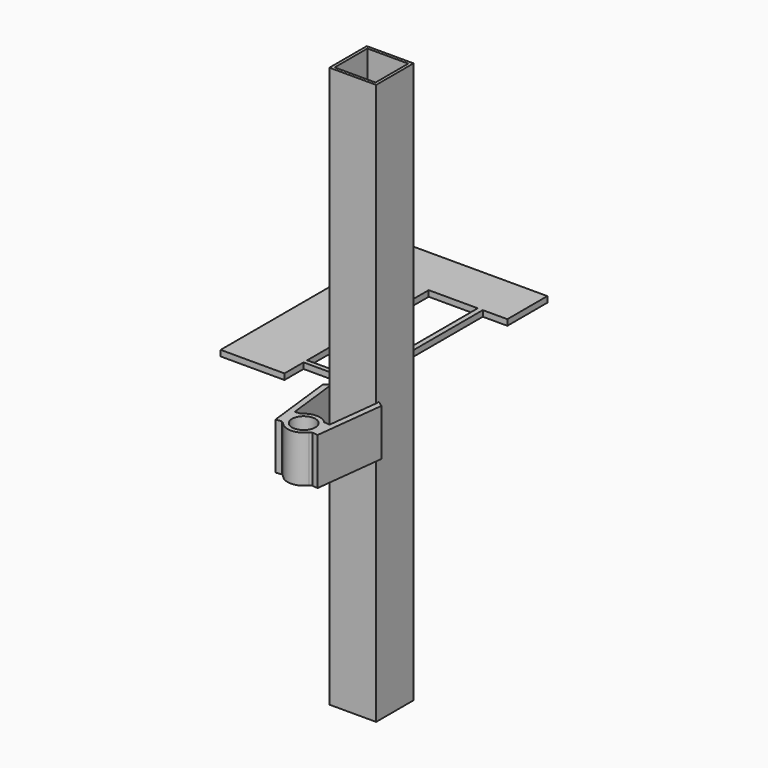
from build123d import *

# Parameters (mm, degrees)
F0_W     = 101.6
F0_H     = 101.6
F0_W_2   = 88.9
F0_H_2   = 88.9
F1_DEPTH = 1219.2
F3_R     = 25.4
F4_DEPTH = 101.6
F5_W     = 10.839459
F5_H     = 279.4
F5_W_2   = 88.9
F5_H_2   = 9.937655
F6_DEPTH = 12.7


with BuildPart() as f1:
    # F0 (on Top) → F1 (new body)
    with BuildSketch(Plane.XY):
        Rectangle(F0_W, F0_H)
        Rectangle(F0_W_2, F0_H_2, mode=Mode.SUBTRACT)
    extrude(amount=F1_DEPTH)

    # F3 (on offset) → F4 (join)
    with BuildSketch(Plane.XY.offset(609.6)):
        Polygon((-63.413588, -52.278986), (-50.8, -50.8), (-50.8, -42.603761), align=None)
        Polygon((-37.830632, -161.409753), (-50.8, -50.8), (-63.413588, -52.278986), (-45.665757, -203.642041), (-33.052169, -202.163055), (-34.687367, -188.21721), align=None)
        with BuildLine():
            ThreePointArc((-25.156298, -159.923644), (-33.097545, -173.000645), (-34.687367, -188.21721))
            ThreePointArc((-34.687367, -188.21721), (-32.444558, -197.076958), (-27.980041, -205.051506))
            ThreePointArc((-27.980041, -205.051506), (0.163736, -219.074616), (28.17479, -204.788237))
            ThreePointArc((28.17479, -204.788237), (32.504806, -196.92471), (34.687367, -188.217211))
            ThreePointArc((34.687367, -188.217211), (34.865541, -186.187073), (34.925, -184.15))
            ThreePointArc((34.925, -184.15), (32.390889, -171.089144), (25.156298, -159.923644))
            ThreePointArc((25.156298, -159.923644), (0, -149.225), (-25.156298, -159.923644))
        make_face()
        with Locations((0, -184.15)):
            Circle(F3_R, mode=Mode.SUBTRACT)
        with BuildLine():
            Line((-25.156298, -159.923644), (-37.830632, -161.409753))
            Line((-37.830632, -161.409753), (-34.687367, -188.21721))
            ThreePointArc((-34.687367, -188.21721), (-33.097545, -173.000645), (-25.156298, -159.923644))
        make_face()
        with BuildLine():
            ThreePointArc((-27.980041, -205.051506), (-32.444558, -197.076958), (-34.687367, -188.21721))
            Line((-34.687367, -188.21721), (-33.052169, -202.163055))
            Line((-33.052169, -202.163055), (-27.980041, -205.051506))
        make_face()
        with BuildLine():
            Line((33.052169, -202.163055), (34.687367, -188.217211))
            ThreePointArc((34.687367, -188.217211), (32.504806, -196.92471), (28.17479, -204.788237))
            Line((28.17479, -204.788237), (33.052169, -202.163055))
        make_face()
        with BuildLine():
            Line((34.687367, -188.217211), (37.830632, -161.409753))
            Line((37.830632, -161.409753), (25.156298, -159.923644))
            ThreePointArc((25.156298, -159.923644), (32.390889, -171.089144), (34.925, -184.15))
            ThreePointArc((34.925, -184.15), (34.865541, -186.187073), (34.687367, -188.217211))
        make_face()
        Polygon((63.413588, -52.278986), (50.8, -50.8), (37.830632, -161.409753), (34.687367, -188.217211), (33.052169, -202.163055), (45.665757, -203.642041), align=None)
        Polygon((50.8, -43.217294), (50.8, -50.8), (63.413588, -52.278986), align=None)
    extrude(amount=-F4_DEPTH)


with BuildPart() as f6:
    # F5 (on offset) → F6 (new body)
    with BuildSketch(Plane.XY.offset(609.6)):
        Polygon((-139.7, 330.2), (-32.9981, 330.2), (-22.158641, 330.2), (31.271237, 330.2), (31.271237, 438.93075), (-278.416485, 438.93075), (-278.416485, -61.827805), (-139.7, -61.827805), (-139.7, -9.937655), (-139.7, 0), align=None)
        with Locations((-27.57837, 190.5)):
            Rectangle(F5_W, F5_H)
        with Locations((-95.25, -4.968827)):
            Rectangle(F5_W_2, F5_H_2)
    extrude(amount=-F6_DEPTH)


solid = Compound([f1.part, f6.part])
